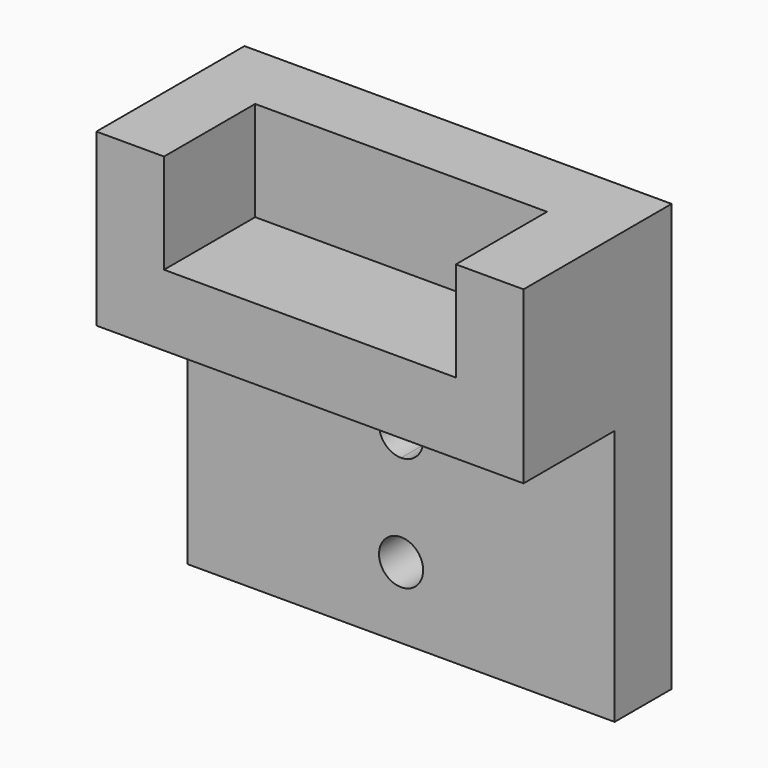
from build123d import *

# Parameters (mm, degrees)
F0_W     = 30
F0_H     = 30
F1_DEPTH = 5
F3_W     = 20.5
F3_H     = 5
F4_DEPTH = 8
F6_DEPTH = 25


with BuildPart() as f1:
    # F0 (on Front) → F1 (new body)
    with BuildSketch(Plane.XZ):
        Rectangle(F0_W, F0_H)
    extrude(amount=F1_DEPTH)

    # F3 (on face) → F4 (join)
    with BuildSketch(Plane.XZ.offset(5)):
        Polygon((-10.25, 8), (-10.25, 15), (-15, 15), (-15, 3), (-10.25, 3), align=None)
        with Locations((0, 5.5)):
            Rectangle(F3_W, F3_H)
        Polygon((15, 15), (10.25, 15), (10.25, 8), (10.25, 3), (15, 3), align=None)
    extrude(amount=F4_DEPTH)

    # F5 (on face) → F6 (cut)
    with BuildSketch(Plane.XZ.offset(5)):
        with BuildLine():
            Line((0, -2), (0, -0.45))
            ThreePointArc((0, -0.45), (-1.55, -2), (0, -3.55))
            Line((0, -3.55), (0, -2))
        make_face()
        with BuildLine():
            ThreePointArc((1.55, -2), (1.0960155108, -0.9039844892), (0, -0.45))
            Line((0, -0.45), (0, -2))
            Line((0, -2), (0, -3.55))
            ThreePointArc((0, -3.55), (1.0960155108, -3.0960155108), (1.55, -2))
        make_face()
        with BuildLine():
            ThreePointArc((1.55, -10), (1.0960155108, -8.9039844892), (0, -8.45))
            ThreePointArc((0, -8.45), (-1.0960155108, -11.0960155108), (1.55, -10))
        make_face()
    extrude(amount=-F6_DEPTH, mode=Mode.SUBTRACT)


solid = f1.part
